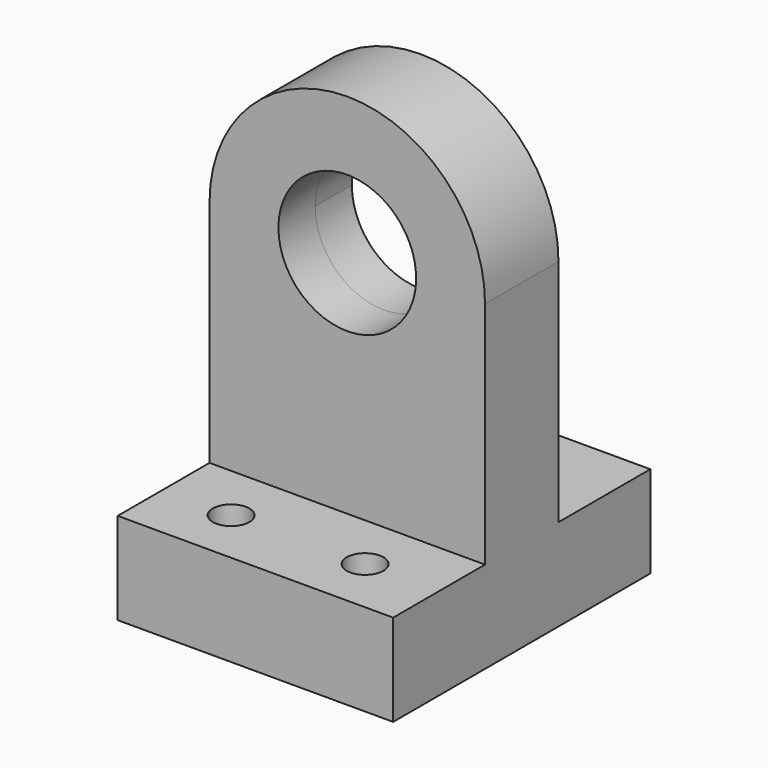
from build123d import *

# Parameters (mm, degrees)
F0_W          = 60
F0_H          = 70
F1_DEPTH      = 20
F3_DEPTH      = 10
F3_DEPTH_BACK = 10
F4_D          = 30
F4_DEPTH      = 35.001
F5_D          = 30
F7_D          = 8
F9_D          = 8
F11_D         = 8
F13_D         = 8


with BuildPart() as f1:
    # F0 (on Top) → F1 (new body)
    with BuildSketch(Plane.XY):
        Rectangle(F0_W, F0_H)
    extrude(amount=F1_DEPTH)

    # F2 (on Front) → F3 (join, two sides)
    with BuildSketch(Plane.XZ) as f3_sk:
        with BuildLine():
            Line((-30, 70), (-30, 20))
            Line((-30, 20), (30, 20))
            Line((30, 20), (30, 70))
            ThreePointArc((30, 70), (0, 100), (-30, 70))
        make_face()
    extrude(amount=F3_DEPTH)
    extrude(f3_sk.sketch, amount=-F3_DEPTH_BACK)

    # F4 (through all, one way)
    with BuildSketch(Plane.XZ):
        with Locations((0, 70)):
            Circle(F4_D / 2)
    extrude(amount=-F4_DEPTH, mode=Mode.SUBTRACT)

    # F5 (through all)
    with Locations(Plane(origin=(0, 0, 0), x_dir=(1, 0, 0), z_dir=(0, 1, 0))):
        with Locations((0, -70)):
            Hole(F5_D / 2)

    # F7 (through all)
    with Locations(Plane(origin=(0, 0, 0), x_dir=(1, 0, 0), z_dir=(0, 0, -1))):
        with Locations((-15.0762257692, 22.7768636146)):
            Hole(F7_D / 2)

    # F9 (through all)
    with Locations(Plane(origin=(0, 0, 0), x_dir=(1, 0, 0), z_dir=(0, 0, -1))):
        with Locations((13.9395821379, 22.5753379162)):
            Hole(F9_D / 2)

    # F11 (through all)
    with Locations(Plane(origin=(0, 0, 0), x_dir=(1, 0, 0), z_dir=(0, 0, -1))):
        with Locations((14.5101989083, -22.7402444433)):
            Hole(F11_D / 2)

    # F13 (through all)
    with Locations(Plane(origin=(0, 0, 0), x_dir=(1, 0, 0), z_dir=(0, 0, -1))):
        with Locations((-15.1346469246, -22.9134526099)):
            Hole(F13_D / 2)


solid = f1.part
